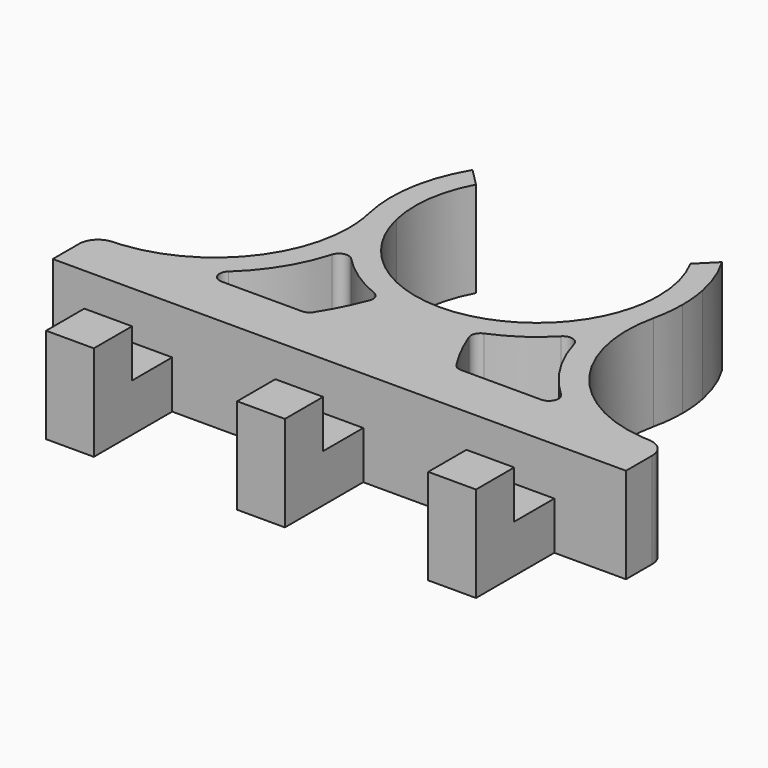
from build123d import *

# Parameters (mm, degrees)
F1_DEPTH = 10
F2_R     = 1
F3_R     = 2
F4_W     = 5
F4_H     = 5
F5_DEPTH = 10.25
F6_W     = 5
F6_H     = 5
F7_W     = 5
F7_H     = 5
F8_W     = 5
F8_H     = 5
F9_DEPTH = 5


with BuildPart() as f1:
    # F0 (on Top) → F1 (new body)
    with BuildSketch(Plane.XY):
        with BuildLine():
            ThreePointArc((4.8593298853, -14.4550826032), (4.4870695728, -13.259622802), (4.1751297651, -12.0470241738))
            ThreePointArc((4.1751297651, -12.0470241738), (0, -12.75), (-4.1751297651, -12.0470241738))
            ThreePointArc((-4.1751297651, -12.0470241738), (-4.4870695728, -13.259622802), (-4.8593298853, -14.4550826032))
            ThreePointArc((-4.8593298853, -14.4550826032), (-2.4619596159, -15.0499586328), (0, -15.25))
            ThreePointArc((0, -15.25), (2.4619596159, -15.0499586328), (4.8593298853, -14.4550826032))
        make_face()
        with BuildLine():
            ThreePointArc((0, -15.25), (-2.4619596159, -15.0499586328), (-4.8593298853, -14.4550826032))
            ThreePointArc((-4.8593298853, -14.4550826032), (-6.1206106512, -17.4986832949), (-7.7711643122, -20.35))
            Line((-7.7711643122, -20.35), (0, -20.35))
            Line((0, -20.35), (0, -15.25))
        make_face()
        with BuildLine():
            ThreePointArc((7.7711643122, -20.35), (6.1206106512, -17.4986832949), (4.8593298853, -14.4550826032))
            ThreePointArc((4.8593298853, -14.4550826032), (2.4619596159, -15.0499586328), (0, -15.25))
            Line((0, -15.25), (0, -20.35))
            Line((0, -20.35), (7.7711643122, -20.35))
        make_face()
        with BuildLine():
            ThreePointArc((-12.1977073115, -25.35), (-9.8167372296, -22.998464997), (-7.7711643122, -20.35))
            Line((-7.7711643122, -20.35), (-19.6810808999, -20.35))
            ThreePointArc((-19.6810808999, -20.35), (-24.6329372033, -22.4587536765), (-30, -22.8616926958))
            Line((-30, -22.8616926958), (-30, -25.35))
            Line((-30, -25.35), (-12.1977073115, -25.35))
        make_face()
        with BuildLine():
            Line((-30, -20.35), (-30, -22.8616926958))
            ThreePointArc((-30, -22.8616926958), (-24.6329372033, -22.4587536765), (-19.6810808999, -20.35))
            Line((-19.6810808999, -20.35), (-27.0704207387, -20.35))
            ThreePointArc((-27.0704207387, -20.35), (-28.5352103694, -20.4268397503), (-30, -20.35))
        make_face()
        with BuildLine():
            Line((0, -20.35), (-7.7711643122, -20.35))
            ThreePointArc((-7.7711643122, -20.35), (-9.8167372296, -22.998464997), (-12.1977073115, -25.35))
            Line((-12.1977073115, -25.35), (0, -25.35))
            Line((0, -25.35), (0, -20.35))
        make_face()
        with BuildLine():
            ThreePointArc((12.1977073115, -25.35), (9.8167372296, -22.998464997), (7.7711643122, -20.35))
            Line((7.7711643122, -20.35), (0, -20.35))
            Line((0, -20.35), (0, -25.35))
            Line((0, -25.35), (12.1977073115, -25.35))
        make_face()
        with BuildLine():
            Line((19.6810808999, -20.35), (7.7711643122, -20.35))
            ThreePointArc((7.7711643122, -20.35), (9.8167372296, -22.998464997), (12.1977073115, -25.35))
            Line((12.1977073115, -25.35), (30, -25.35))
            Line((30, -25.35), (30, -22.8616926958))
            ThreePointArc((30, -22.8616926958), (24.6329372033, -22.4587536765), (19.6810808999, -20.35))
        make_face()
        with BuildLine():
            Line((27.0704207387, -20.35), (19.6810808999, -20.35))
            ThreePointArc((19.6810808999, -20.35), (24.6329372033, -22.4587536765), (30, -22.8616926958))
            Line((30, -22.8616926958), (30, -20.35))
            ThreePointArc((30, -20.35), (28.5352103694, -20.4268397503), (27.0704207387, -20.35))
        make_face()
        with BuildLine():
            ThreePointArc((-12.0352103694, -6.4268397503), (-12.1363238462, -4.6029645348), (-12.438425012, -2.8014430604))
            ThreePointArc((-12.438425012, -2.8014430604), (-13.4233051179, 0.1973824432), (-14.9612028693, 2.9537956434))
            ThreePointArc((-14.9612028693, 2.9537956434), (-15.2486507313, -0.2028567877), (-14.8773319104, -3.3507454733))
            ThreePointArc((-14.8773319104, -3.3507454733), (-13.863287972, -6.3538765023), (-12.2503272762, -9.0825096547))
            ThreePointArc((-12.2503272762, -9.0825096547), (-12.0890775255, -7.7590238521), (-12.0352103694, -6.4268397503))
        make_face()
        with BuildLine():
            ThreePointArc((-4.8593298853, -14.4550826032), (-4.4870695728, -13.259622802), (-4.1751297651, -12.0470241738))
            ThreePointArc((-4.1751297651, -12.0470241738), (-9.5064579689, -8.4964555484), (-12.438425012, -2.8014430604))
            ThreePointArc((-12.438425012, -2.8014430604), (-12.1363238462, -4.6029645348), (-12.0352103694, -6.4268397503))
            ThreePointArc((-12.0352103694, -6.4268397503), (-12.0890775255, -7.7590238521), (-12.2503272762, -9.0825096547))
            ThreePointArc((-12.2503272762, -9.0825096547), (-8.9666731326, -12.3353667531), (-4.8593298853, -14.4550826032))
        make_face()
        with BuildLine():
            ThreePointArc((12.4384250802, -2.8014427577), (9.5064580723, -8.4964554327), (4.1751297651, -12.0470241738))
            ThreePointArc((4.1751297651, -12.0470241738), (4.4870695728, -13.259622802), (4.8593298853, -14.4550826032))
            ThreePointArc((4.8593298853, -14.4550826032), (8.9666731326, -12.3353667531), (12.2503272762, -9.0825096547))
            ThreePointArc((12.2503272762, -9.0825096547), (12.0426040821, -5.9329391), (12.4384250802, -2.8014427577))
        make_face()
        with BuildLine():
            ThreePointArc((14.9612028693, 2.9537956434), (13.4233051801, 0.1973825853), (12.4384250802, -2.8014427577))
            ThreePointArc((12.4384250802, -2.8014427577), (12.0426040821, -5.9329391), (12.2503272762, -9.0825096547))
            ThreePointArc((12.2503272762, -9.0825096547), (13.8632879655, -6.3538765165), (14.8773319036, -3.3507455038))
            ThreePointArc((14.8773319036, -3.3507455038), (15.1565466306, -1.6857028906), (15.25, 0))
            ThreePointArc((15.25, 0), (15.177628994, 1.4839400666), (14.9612028693, 2.9537956434))
        make_face()
        with BuildLine():
            ThreePointArc((-19.6810808999, -20.35), (-14.7609019356, -15.5108051385), (-12.2503272762, -9.0825096547))
            ThreePointArc((-12.2503272762, -9.0825096547), (-13.863287972, -6.3538765023), (-14.8773319104, -3.3507454733))
            ThreePointArc((-14.8773319104, -3.3507454733), (-14.621003629, -4.8793092054), (-14.5352103694, -6.4268397503))
            ThreePointArc((-14.5352103694, -6.4268397503), (-18.1307148307, -15.7941484666), (-27.0704207387, -20.35))
            Line((-27.0704207387, -20.35), (-19.6810808999, -20.35))
        make_face()
        with BuildLine():
            ThreePointArc((-12.1977073115, -25.35), (-9.8167372296, -22.998464997), (-7.7711643122, -20.35))
            Line((-7.7711643122, -20.35), (-19.6810808999, -20.35))
            ThreePointArc((-19.6810808999, -20.35), (-24.6329372033, -22.4587536765), (-30, -22.8616926958))
            Line((-30, -22.8616926958), (-30, -25.35))
            Line((-30, -25.35), (-12.1977073115, -25.35))
        make_face()
        with BuildLine():
            ThreePointArc((14.8773319036, -3.3507455038), (13.8632879655, -6.3538765165), (12.2503272762, -9.0825096547))
            ThreePointArc((12.2503272762, -9.0825096547), (14.7609019356, -15.5108051385), (19.6810808999, -20.35))
            Line((19.6810808999, -20.35), (27.0704207387, -20.35))
            ThreePointArc((27.0704207387, -20.35), (17.1590319273, -14.5866537221), (14.8773319036, -3.3507455038))
        make_face()
        with BuildLine():
            Line((19.6810808999, -20.35), (7.7711643122, -20.35))
            ThreePointArc((7.7711643122, -20.35), (9.8167372296, -22.998464997), (12.1977073115, -25.35))
            Line((12.1977073115, -25.35), (30, -25.35))
            Line((30, -25.35), (30, -22.8616926958))
            ThreePointArc((30, -22.8616926958), (24.6329372033, -22.4587536765), (19.6810808999, -20.35))
        make_face()
        with BuildLine():
            ThreePointArc((-12.438425012, -2.8014430604), (-12.6311834993, 1.7365780743), (-11.2209196713, 6.0542102482))
            Line((-11.2209196713, 6.0542102482), (-13.0527161264, 7.8860067033))
            ThreePointArc((-13.0527161264, 7.8860067033), (-14.2223975074, 5.5032634991), (-14.9612028693, 2.9537956434))
            ThreePointArc((-14.9612028693, 2.9537956434), (-13.4233051179, 0.1973824432), (-12.438425012, -2.8014430604))
        make_face()
        with BuildLine():
            Line((13.0527161264, 7.8860067033), (11.2209196713, 6.0542102482))
            ThreePointArc((11.2209196713, 6.0542102482), (12.3618207763, 3.1221606454), (12.75, 0))
            ThreePointArc((12.75, 0), (12.6718668667, -1.4093580502), (12.4384250802, -2.8014427577))
            ThreePointArc((12.4384250802, -2.8014427577), (13.4233051801, 0.1973825853), (14.9612028693, 2.9537956434))
            ThreePointArc((14.9612028693, 2.9537956434), (14.2223975074, 5.5032634991), (13.0527161264, 7.8860067033))
        make_face()
        with BuildLine():
            Line((-30, -25.85), (-12.7954249224, -25.85))
            ThreePointArc((-12.7954249224, -25.85), (-12.4946178162, -25.6023290673), (-12.1977073115, -25.35))
            Line((-12.1977073115, -25.35), (-30, -25.35))
            Line((-30, -25.35), (-30, -25.85))
        make_face()
        with BuildLine():
            ThreePointArc((12.7954249224, -25.85), (12.4946178162, -25.6023290673), (12.1977073115, -25.35))
            Line((12.1977073115, -25.35), (0, -25.35))
            Line((0, -25.35), (-12.1977073115, -25.35))
            ThreePointArc((-12.1977073115, -25.35), (-12.4946178162, -25.6023290673), (-12.7954249224, -25.85))
            Line((-12.7954249224, -25.85), (12.7954249224, -25.85))
        make_face()
        with BuildLine():
            Line((30, -25.35), (12.1977073115, -25.35))
            ThreePointArc((12.1977073115, -25.35), (12.4946178162, -25.6023290673), (12.7954249224, -25.85))
            Line((12.7954249224, -25.85), (30, -25.85))
            Line((30, -25.85), (30, -25.35))
        make_face()
    extrude(amount=F1_DEPTH)

    # F2
    f2_edges = [f1.edges().sort_by_distance(p)[0] for p in [
        (-7.771164, -20.35, 5),
        (-4.85933, -14.455083, 5),
        (-12.250327, -9.08251, 5),
        (-19.681081, -20.35, 5),
        (7.771164, -20.35, 5),
        (4.85933, -14.455083, 5),
        (12.250327, -9.08251, 5),
        (19.681081, -20.35, 5),
    ]]
    fillet(f2_edges, radius=F2_R)

    # F3
    f3_edges = [f1.edges().sort_by_distance(p)[0] for p in [
        (30, -20.35, 5),
        (-30, -20.35, 5),
    ]]
    fillet(f3_edges, radius=F3_R)

    # F4 (on face) → F5 (join)
    with BuildSketch(Plane.XZ.offset(25.85)):
        with Locations((-20, 2.5)):
            Rectangle(F4_W, F4_H)
        with Locations((0, 2.5)):
            Rectangle(F4_W, F4_H)
        with Locations((20, 2.5)):
            Rectangle(F4_W, F4_H)
        with Locations((0, 2.5)):
            Rectangle(F4_W, F4_H)
    extrude(amount=F5_DEPTH)

    # F6 (on face) + F7 (on face) + F8 (on face) → F9 (join)
    with BuildSketch(Plane.XY.offset(5)):
        with Locations((-20, -33.6)):
            Rectangle(F6_W, F6_H)
    with BuildSketch(Plane.XY.offset(5)):
        with Locations((0, -33.6)):
            Rectangle(F7_W, F7_H)
    with BuildSketch(Plane.XY.offset(5)):
        with Locations((20, -33.6)):
            Rectangle(F8_W, F8_H)
    extrude(amount=F9_DEPTH)


solid = f1.part
